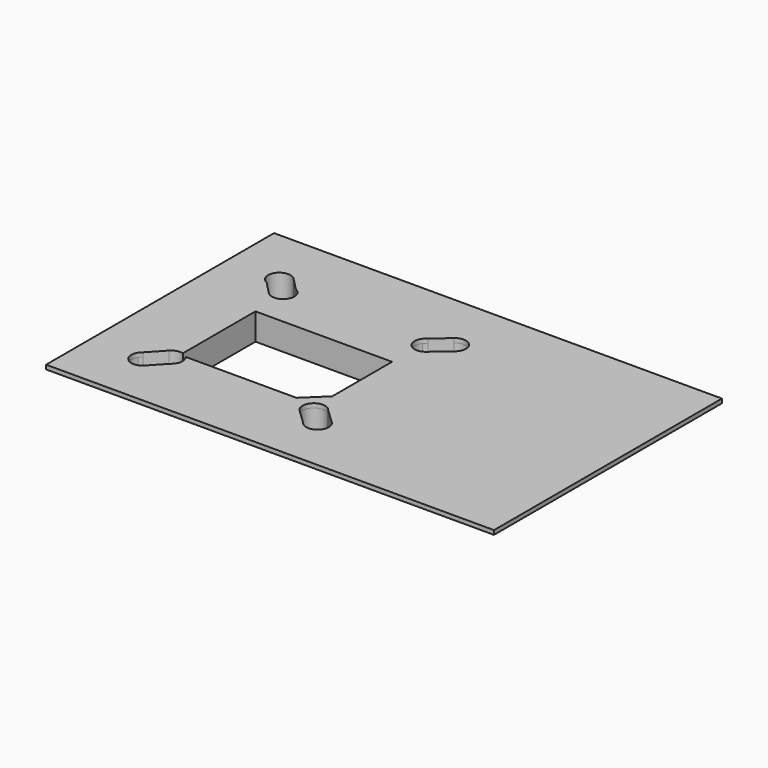
from build123d import *

# Parameters (mm, degrees)
F0_W     = 75.4
F0_H     = 75.4
F1_DEPTH = 8
F2_W     = 159.4
F2_H     = 101.4
F2_W_2   = 75.4
F2_H_2   = 75.4
F3_DEPTH = 1.5


with BuildPart() as f1:
    # F0 (on Top) → F1 (new body)
    with BuildSketch(Plane.XY):
        with Locations((0.4813401251, 14.8904769625)):
            Rectangle(F0_W, F0_H)
        with BuildLine():
            Line((-23.8186598749, -5.7137461329), (-23.8186598749, 26.5904769625))
            Line((-23.8186598749, 26.5904769625), (24.7813401251, 26.5904769625))
            Line((24.7813401251, 26.5904769625), (24.7813401251, 0))
            Line((24.7813401251, 0), (17.5715058362, -6.9295230375))
            Line((17.5715058362, -6.9295230375), (-21.9048416986, -6.9295230375))
            ThreePointArc((-21.9048416986, -6.9295230375), (-21.1733112459, -8.1551143907), (-20.9186598749, -9.5595230375))
            ThreePointArc((-20.9186598749, -9.5595230375), (-21.0738754588, -10.662987035), (-21.5274762718, -11.6808136281))
            ThreePointArc((-21.5274762718, -11.6808136281), (-21.9879351974, -12.2818112046), (-22.5533910913, -12.785279318))
            Line((-22.5533910913, -12.785279318), (-27.484791629, -18.0942607202))
            ThreePointArc((-27.484791629, -18.0942607202), (-32.8482245506, -18.5471781525), (-33.8066999096, -13.2506819624))
            ThreePointArc((-33.8066999096, -13.2506819624), (-33.346240984, -12.649684386), (-32.7807850901, -12.1462162726))
            Line((-32.7807850901, -12.1462162726), (-27.8493845524, -6.8372348704))
            ThreePointArc((-27.8493845524, -6.8372348704), (-25.9926454181, -5.7064002711), (-23.8186598749, -5.7137461329))
        make_face(mode=Mode.SUBTRACT)
        with BuildLine():
            ThreePointArc((23.1275815823, -12.4606976079), (22.7138761568, -7.1167434713), (27.9875498557, -6.1589524133))
            ThreePointArc((27.9875498557, -6.1589524133), (28.6350986679, -6.6583484671), (29.1675548503, -7.2789983655))
            Line((29.1675548503, -7.2789983655), (34.3795847494, -12.2261918251))
            ThreePointArc((34.3795847494, -12.2261918251), (35.3010836242, -13.5486064662), (35.6258262066, -15.1273663955))
            ThreePointArc((35.6258262066, -15.1273663955), (33.5719969439, -18.6219936233), (29.519616476, -18.5279370197))
            ThreePointArc((29.519616476, -18.5279370197), (28.8720676639, -18.0285409659), (28.3396114814, -17.4078910675))
            Line((28.3396114814, -17.4078910675), (23.1275815823, -12.4606976079))
        make_face(mode=Mode.SUBTRACT)
        with BuildLine():
            ThreePointArc((-23.3404046039, 43.9659511223), (-21.578523569, 42.4912698782), (-20.9186598749, 40.2904769625))
            ThreePointArc((-20.9186598749, 40.2904769625), (-23.4107271297, 36.5855965547), (-27.7817292929, 37.4971217205))
            Line((-27.7817292929, 37.4971217205), (-32.2969151459, 42.1249937282))
            ThreePointArc((-32.2969151459, 42.1249937282), (-34.016253741, 48.064507352), (-27.855590457, 48.5938231301))
            Line((-27.855590457, 48.5938231301), (-23.3404046039, 43.9659511223))
        make_face(mode=Mode.SUBTRACT)
        with BuildLine():
            ThreePointArc((28.516548918, 37.2812121656), (23.1526118498, 37.3657475734), (22.6967986115, 42.7109511615))
            ThreePointArc((22.6967986115, 42.7109511615), (23.2461313322, 43.2997417594), (23.9022626101, 43.7665742266))
            Line((23.9022626101, 43.7665742266), (29.3177512802, 48.5089097551))
            ThreePointArc((29.3177512802, 48.5089097551), (33.6051048652, 49.1425033943), (35.9529600731, 45.4996449582))
            ThreePointArc((35.9529600731, 45.4996449582), (35.7436174075, 44.2225713609), (35.1375015867, 43.0791707592))
            ThreePointArc((35.1375015867, 43.0791707592), (34.5881688659, 42.4903801613), (33.932037588, 42.0235476941))
            Line((33.932037588, 42.0235476941), (28.516548918, 37.2812121656))
        make_face(mode=Mode.SUBTRACT)
    extrude(amount=F1_DEPTH)

    # F2 (on face) → F3 (join)
    with BuildSketch(Plane.XY.offset(8)):
        with Locations((30.4813401251, 15.8904769625)):
            Rectangle(F2_W, F2_H)
        with Locations((0.4813401251, 14.8904769625)):
            Rectangle(F2_W_2, F2_H_2, mode=Mode.SUBTRACT)
        with Locations((0.4813401251, 14.8904769625)):
            Rectangle(F2_W_2, F2_H_2)
        with BuildLine():
            ThreePointArc((34.3795847494, -12.2261918251), (34.2303183176, -18.1632552017), (28.3396114814, -17.4078910675))
            Line((28.3396114814, -17.4078910675), (23.1275815823, -12.4606976079))
            ThreePointArc((23.1275815823, -12.4606976079), (23.2768480141, -6.5236342313), (29.1675548503, -7.2789983655))
            Line((29.1675548503, -7.2789983655), (34.3795847494, -12.2261918251))
        make_face(mode=Mode.SUBTRACT)
        with BuildLine():
            ThreePointArc((-27.8493845524, -6.8372348704), (-25.9926454181, -5.7064002711), (-23.8186598749, -5.7137461329))
            Line((-23.8186598749, -5.7137461329), (-23.8186598749, 26.5904769625))
            Line((-23.8186598749, 26.5904769625), (24.7813401251, 26.5904769625))
            Line((24.7813401251, 26.5904769625), (24.7813401251, 0))
            Line((24.7813401251, 0), (17.5715058362, -6.9295230375))
            Line((17.5715058362, -6.9295230375), (-21.9048416986, -6.9295230375))
            ThreePointArc((-21.9048416986, -6.9295230375), (-20.9429694273, -9.9998473102), (-22.5533910913, -12.785279318))
            Line((-22.5533910913, -12.785279318), (-27.484791629, -18.0942607202))
            ThreePointArc((-27.484791629, -18.0942607202), (-33.4029471893, -18.0319080261), (-32.7807850901, -12.1462162726))
            Line((-32.7807850901, -12.1462162726), (-27.8493845524, -6.8372348704))
        make_face(mode=Mode.SUBTRACT)
        with BuildLine():
            ThreePointArc((-32.2969151459, 42.1249937282), (-34.016253741, 48.064507352), (-27.855590457, 48.5938231301))
            Line((-27.855590457, 48.5938231301), (-23.3404046039, 43.9659511223))
            ThreePointArc((-23.3404046039, 43.9659511223), (-21.6210660088, 38.0264374985), (-27.7817292929, 37.4971217205))
            Line((-27.7817292929, 37.4971217205), (-32.2969151459, 42.1249937282))
        make_face(mode=Mode.SUBTRACT)
        with BuildLine():
            ThreePointArc((28.516548918, 37.2812121656), (22.6221059621, 37.9715563794), (23.9022626101, 43.7665742266))
            Line((23.9022626101, 43.7665742266), (29.3177512802, 48.5089097551))
            ThreePointArc((29.3177512802, 48.5089097551), (35.212194236, 47.8185655413), (33.932037588, 42.0235476941))
            Line((33.932037588, 42.0235476941), (28.516548918, 37.2812121656))
        make_face(mode=Mode.SUBTRACT)
    extrude(amount=F3_DEPTH)


solid = f1.part
